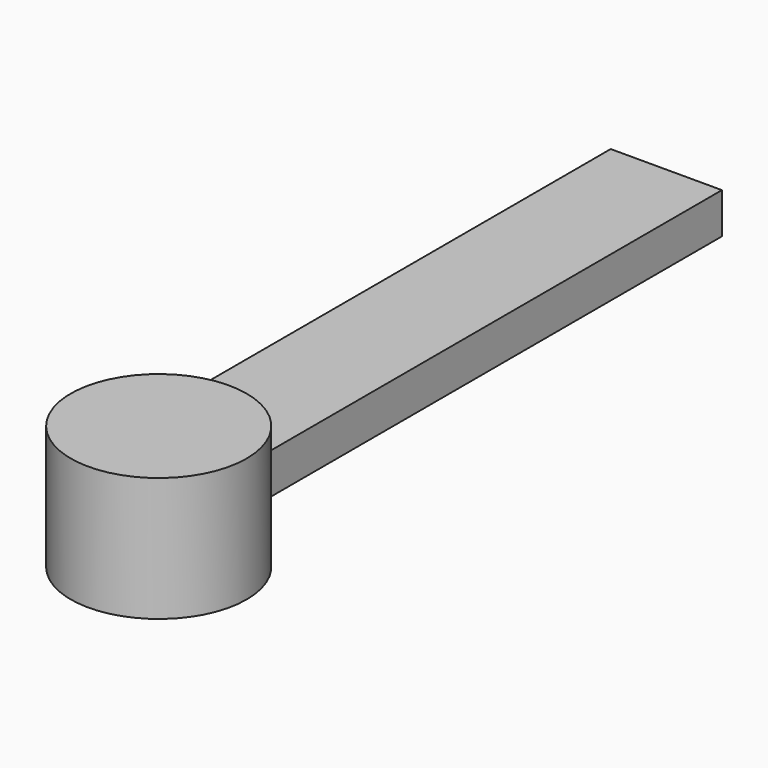
from build123d import *

# Parameters (mm, degrees)
F0_W     = 66.785551
F0_H     = 24.449315
F1_DEPTH = 381
F2_W     = 52.814256
F2_H     = 74.513123


with BuildPart() as f1:
    # F0 (on Front) → F1 (new body)
    with BuildSketch(Plane.XZ):
        with Locations((16.298856, 1.922341)):
            Rectangle(F0_W, F0_H)
    extrude(amount=F1_DEPTH)

    # F2 (on face) → F3 (revolve)
    with BuildSketch(Plane.XZ.offset(381)):
        with Locations((42.705985, -3.809434)):
            Rectangle(F2_W, F2_H)
    revolve(axis=Axis((16.298857, -381, -3.809433), (0, 0, -1)))


solid = f1.part
